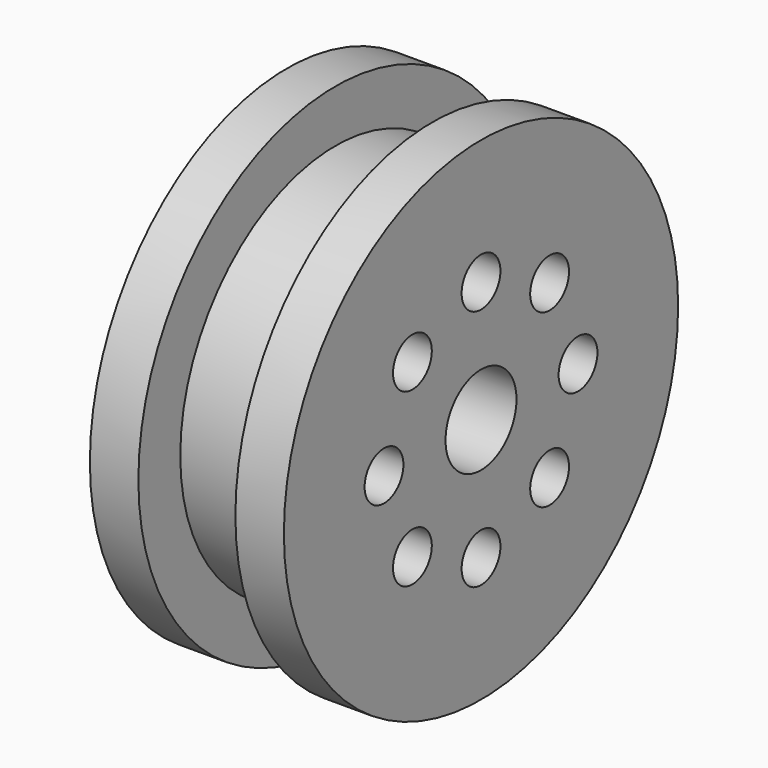
from build123d import *

# Parameters (mm, degrees)
F0_R     = 10
F1_DEPTH = 2.5
F2_R     = 12.7
F3_DEPTH = 2.5
F5_R     = 2.286
F6_DEPTH = 10.001
F7_R     = 1.25
F8_DEPTH = 10.001


with BuildPart() as f1:
    # F0 (on Right) → F1 (new body)
    with BuildSketch(Plane.YZ):
        Circle(F0_R)
    extrude(amount=F1_DEPTH)

    # F2 (on face) → F3 (join)
    with BuildSketch(Plane.YZ.offset(2.5)):
        Circle(F2_R)
    extrude(amount=F3_DEPTH)

    # F4: F1 across face


with BuildPart() as f1_1:
    add(f1.part)
    add(f1.part.mirror(Plane(origin=(0, 0, 0), x_dir=(0, 1, 0), z_dir=(-1, 0, 0))))

    # F5 (on face) → F6 (cut, through all)
    with BuildSketch(Plane.YZ.offset(5)):
        Circle(F5_R)
    extrude(amount=-F6_DEPTH, mode=Mode.SUBTRACT)

    # F7 (on face) → F8 (cut, through all)
    with BuildSketch(Plane.YZ.offset(5)):
        with Locations((0, 6.25)):
            Circle(F7_R)
        with Locations((6.25, 0)):
            Circle(F7_R)
        with Locations((0, -6.25)):
            Circle(F7_R)
        with Locations((-6.25, 0)):
            Circle(F7_R)
        with Locations((-4.419417, -4.419417)):
            Circle(F7_R)
        with Locations((4.419417, -4.419417)):
            Circle(F7_R)
        with Locations((-4.419417, 4.419417)):
            Circle(F7_R)
        with Locations((4.419417, 4.419417)):
            Circle(F7_R)
    extrude(amount=-F8_DEPTH, mode=Mode.SUBTRACT)


solid = f1_1.part
